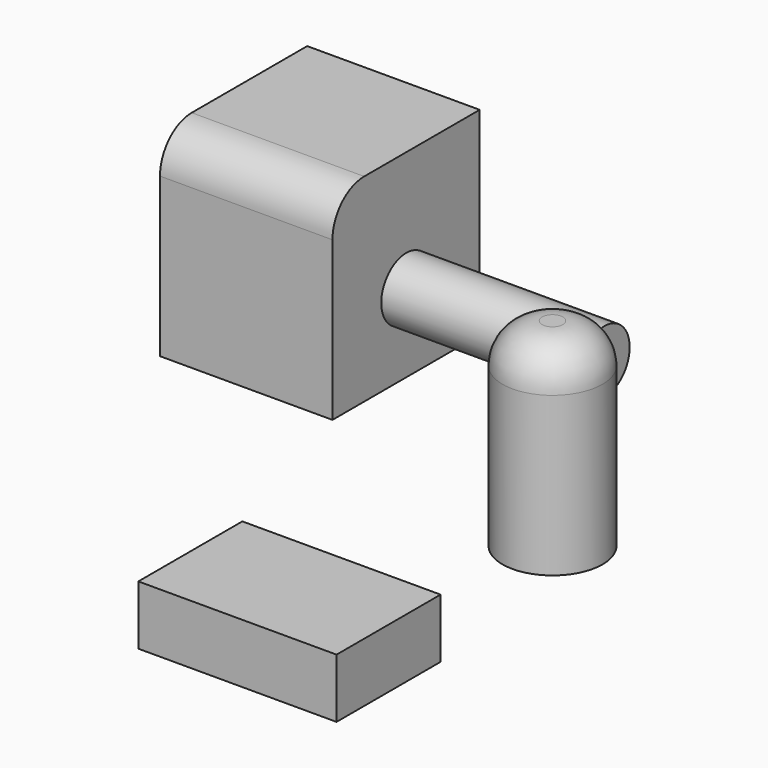
from build123d import *

# Parameters (mm, degrees)
F0_W      = 22.1026940271
F0_H      = 23.578889668
F1_DEPTH  = 25.4
F3_R      = 6.4081538326
F4_DEPTH  = 25.4
F5_R      = 5.08
F5_2_R    = 5.08
F6_R      = 4.0212899702
F7_DEPTH  = 25.4
F8_T      = -2.54
F9_W      = 16.6588872671
F9_H      = 7.5919292867
F10_DEPTH = 25.4


with BuildPart() as f1:
    # F0 (on Top) → F1 (new body)
    with BuildSketch(Plane.XY):
        with Locations((2.7647218667, -5.3227283061)):
            Rectangle(F0_W, F0_H)
    extrude(amount=F1_DEPTH)

    # F5
    f5_edges = [f1.edges().sort_by_distance(p)[0] for p in [
        (2.764722, -17.112173, 25.4),
    ]]
    fillet(f5_edges, radius=F5_R)

    # F6 (on face) → F7 (join)
    with BuildSketch(Plane.YZ.offset(13.8160688803)):
        with Locations((-5.2789159967, 10.0201541813)):
            Circle(F6_R)
    extrude(amount=F7_DEPTH)

    # F8
    f8_openings = [f1.faces().sort_by_distance(p)[0] for p in [
        (2.764722, -5.322728, 0),
        (2.764722, 6.466717, 12.7),
    ]]
    offset(amount=F8_T, openings=f8_openings, kind=Kind.INTERSECTION)


with BuildPart() as f4:
    # F3 (on Top) → F4 (new body)
    with BuildSketch(Plane.XY):
        with Locations((48.0704158545, -24.6848165989)):
            Circle(F3_R)
    extrude(amount=F4_DEPTH)

    # F5#2
    f5_2_edges = [f4.edges().sort_by_distance(p)[0] for p in [
        (41.662262, -24.684817, 25.4),
    ]]
    fillet(f5_2_edges, radius=F5_2_R)


with BuildPart() as f10:
    # F9 (on Right) → F10 (new body)
    with BuildSketch(Plane.YZ):
        with Locations((-22.6085111499, -20.8875481039)):
            Rectangle(F9_W, F9_H)
    extrude(amount=F10_DEPTH)


solid = Compound([f1.part, f4.part, f10.part])
